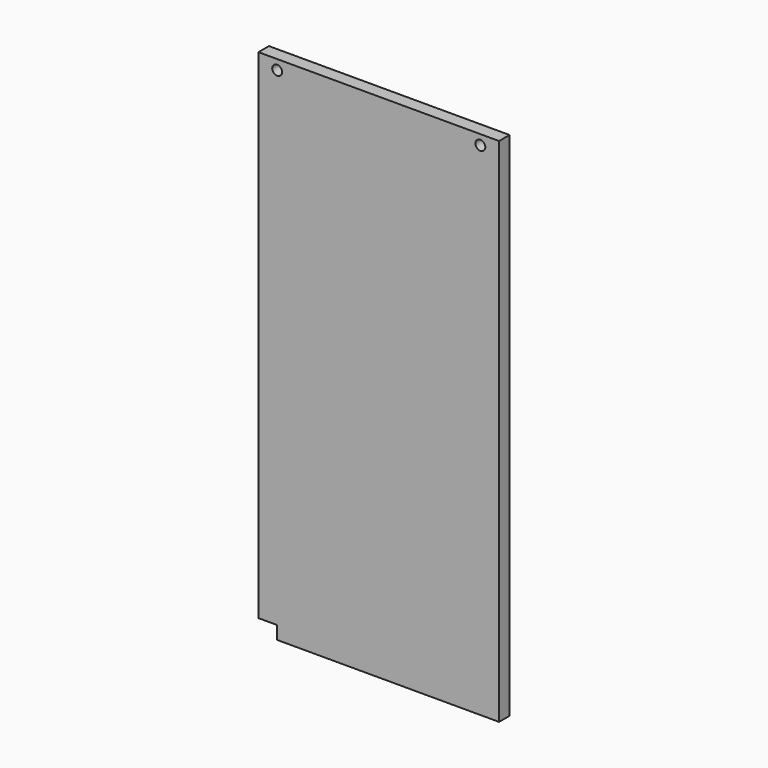
from build123d import *

# Parameters (mm, degrees)
SKETCH030_W     = 73.4
SKETCH030_H     = 156
PAD008_DEPTH    = 4
SKETCH031_R     = 1.5
POCKET014_DEPTH = 4
SKETCH032_W     = 14
SKETCH032_H     = 16
POCKET015_DEPTH = 5


with BuildPart() as part:
    # Sketch030 → Pad008 (new body)
    with BuildSketch(Plane.XZ):
        with Locations((45, 90)):
            Rectangle(SKETCH030_W, SKETCH030_H)
    extrude(amount=PAD008_DEPTH)

    # Sketch031 (on Face5 of Pad008) → Pocket014 (cut)
    with BuildSketch(Plane(origin=(0, 0, 0), x_dir=(1, 0, 0), z_dir=(0, 1, 0))):
        with Locations((14, -165)):
            Circle(SKETCH031_R)
        with Locations((76, -165)):
            Circle(SKETCH031_R)
    extrude(amount=-POCKET014_DEPTH, mode=Mode.SUBTRACT)

    # Sketch032 (on Face4 of Pocket014) → Pocket015 (cut)
    with BuildSketch(Plane(origin=(0, 0, 0), x_dir=(1, 0, 0), z_dir=(0, 1, 0))):
        with Locations((7, -8)):
            Rectangle(SKETCH032_W, SKETCH032_H)
    extrude(amount=-POCKET015_DEPTH, mode=Mode.SUBTRACT)


solid = part.part
